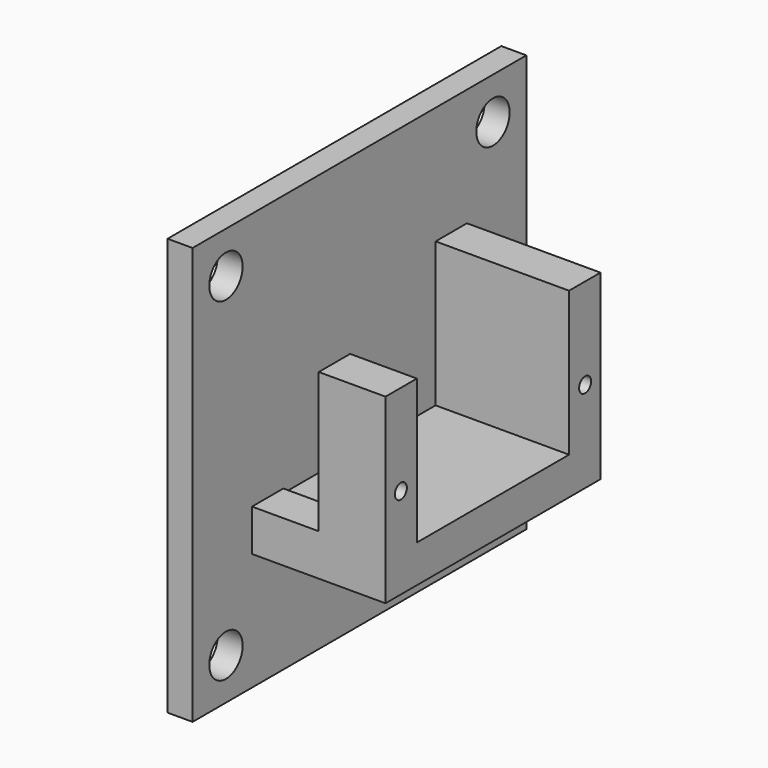
from build123d import *

# Parameters (mm, degrees)
F0_R     = 0.9
F1_DEPTH = 16
F2_W     = 8
F2_H     = 16.8
F3_DEPTH = 5
F4_W     = 50
F4_H     = 50
F4_R     = 2.5
F5_DEPTH = 3


with BuildPart() as f1:
    # F0 (on Right) → F1 (new body)
    with BuildSketch(Plane.YZ):
        Polygon((-16.1, 10.9), (-16.1, 5.9), (-16.1, -5.9), (-16.1, -10.9), (16.1, -10.9), (16.1, -5.9), (16.1, 5.9), (16.1, 10.9), (11.4, 10.9), (11.4, 5.9), (11.4, -5.9), (11.4, -6.4), (-11.4, -6.4), (-11.4, -5.9), (-11.4, 5.9), (-11.4, 10.9), align=None)
        with Locations((-13.8, 0)):
            Circle(F0_R, mode=Mode.SUBTRACT)
        with Locations((13.8, 0)):
            Circle(F0_R, mode=Mode.SUBTRACT)
    extrude(amount=F1_DEPTH)

    # F2 (on face) → F3 (cut)
    with BuildSketch(Plane.XZ.offset(16.1)):
        with Locations((4, 2.5)):
            Rectangle(F2_W, F2_H)
    extrude(amount=-F3_DEPTH, mode=Mode.SUBTRACT)

    # F4 (on face) → F5 (join)
    with BuildSketch(Plane.YZ):
        Rectangle(F4_W, F4_H)
        with Locations((-20, -20)):
            Circle(F4_R, mode=Mode.SUBTRACT)
        with Locations((20, -20)):
            Circle(F4_R, mode=Mode.SUBTRACT)
        with Locations((-20, 20)):
            Circle(F4_R, mode=Mode.SUBTRACT)
        with Locations((20, 20)):
            Circle(F4_R, mode=Mode.SUBTRACT)
    extrude(amount=-F5_DEPTH)


solid = f1.part
